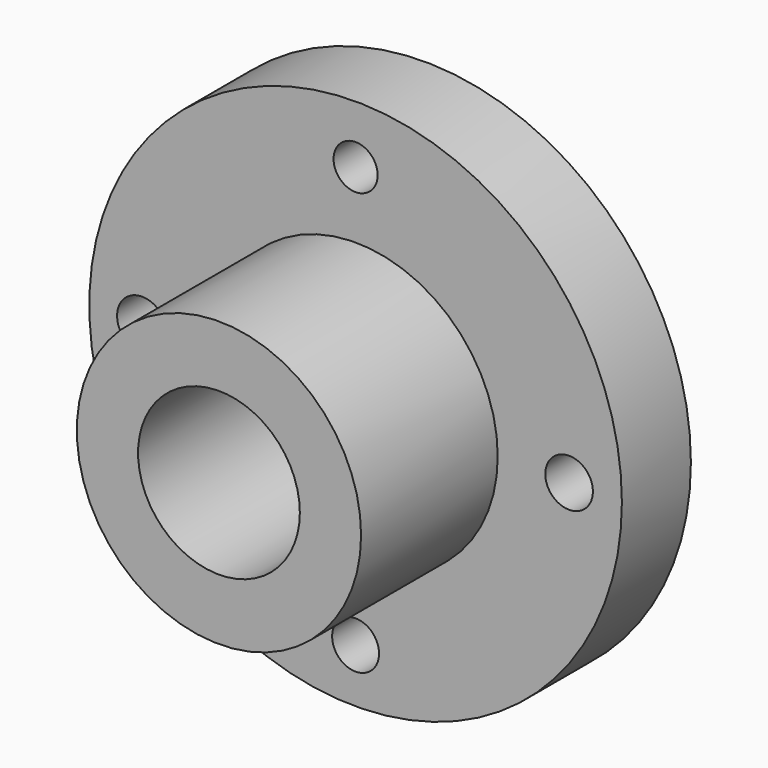
from build123d import *

# Parameters (mm, degrees)
F0_R     = 39.206734
F0_R_2   = 3.455117
F0_R_3   = 3.683637
F0_R_4   = 20.926103
F0_R_5   = 3.503953
F0_R_6   = 3.247211
F1_DEPTH = 12.7
F2_DEPTH = 37.846
F3_R     = 11.90838
F4_DEPTH = 35.814


with BuildPart() as f1:
    # F0 (on Front) → F1 (new body)
    with BuildSketch(Plane.XZ):
        Circle(F0_R)
        with Locations((0, -31.248145)):
            Circle(F0_R_2, mode=Mode.SUBTRACT)
        with Locations((-31.432498, 0)):
            Circle(F0_R_3, mode=Mode.SUBTRACT)
        Circle(F0_R_4, mode=Mode.SUBTRACT)
        with Locations((31.432498, 0)):
            Circle(F0_R_5, mode=Mode.SUBTRACT)
        with Locations((0, 30.695081)):
            Circle(F0_R_6, mode=Mode.SUBTRACT)
    extrude(amount=F1_DEPTH)

    # F0 (on Front) → F2 (join)
    with BuildSketch(Plane.XZ):
        Circle(F0_R_4)
    extrude(amount=F2_DEPTH)

    # F3 (on face) → F4 (cut)
    with BuildSketch(Plane.XZ.offset(37.846)):
        Circle(F3_R)
    extrude(amount=-F4_DEPTH, mode=Mode.SUBTRACT)


solid = f1.part
